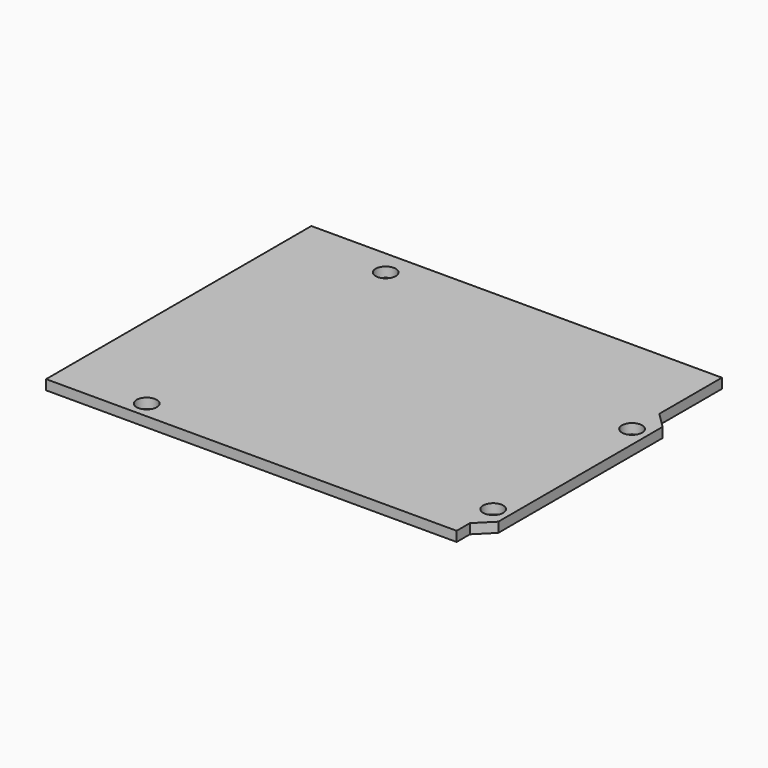
from build123d import *

# Parameters (mm, degrees)
F1_DEPTH = 1.588
F2_R     = 1.6195
F3_DEPTH = 1.589


with BuildPart() as f1:
    # F0 (on Top) → F1 (new body)
    with BuildSketch(Plane.XY):
        Polygon((31.577439, 26.67), (-34.462561, 26.67), (-34.462561, -26.67), (31.577439, -26.67), (31.577439, -24.003), (31.577439, 14.097), align=None)
        Polygon((34.117439, 11.557), (31.577439, 14.097), (31.577439, -24.003), (34.117439, -21.463), align=None)
    extrude(amount=F1_DEPTH)

    # F2 (on face) → F3 (cut, through all)
    with BuildSketch(Plane.XY.offset(1.588)):
        with Locations((-19.285561, 22.64)):
            Circle(F2_R)
        with Locations((-20.448561, -23.959)):
            Circle(F2_R)
        with Locations((31.482439, 8.719)):
            Circle(F2_R)
        with Locations((31.482439, -19.209)):
            Circle(F2_R)
    extrude(amount=-F3_DEPTH, mode=Mode.SUBTRACT)


solid = f1.part
